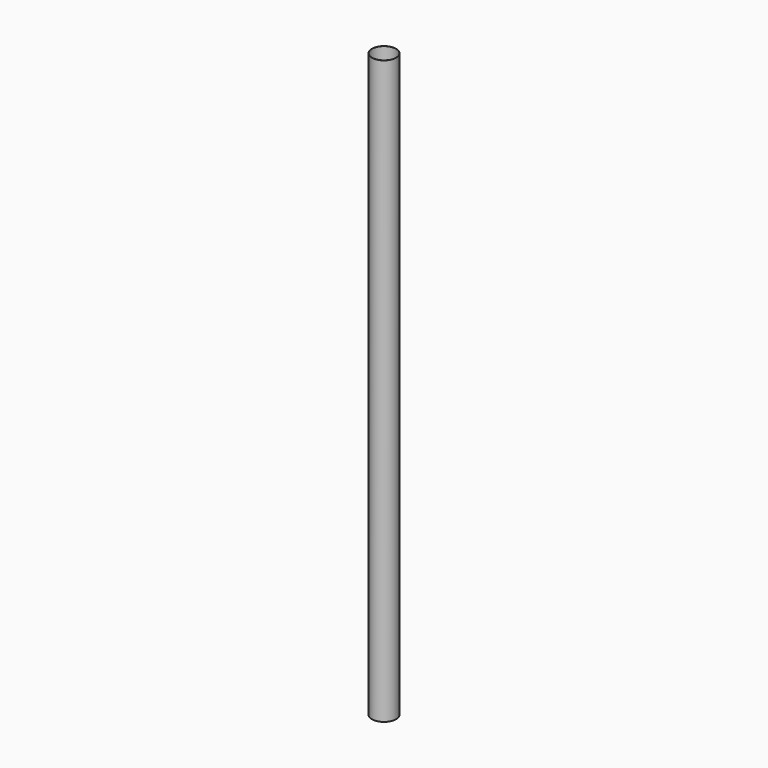
from build123d import *

# Parameters (mm, degrees)
F0_R     = 76.2
F0_R_2   = 75.565
F1_DEPTH = 3657.6
F2_DEPTH = 3655.06


with BuildPart() as f1:
    # F0 (on Top) → F1 (new body)
    with BuildSketch(Plane.XY):
        Circle(F0_R)
        Circle(F0_R_2, mode=Mode.SUBTRACT)
        Circle(F0_R_2)
    extrude(amount=-F1_DEPTH)

    # F0 (on Top) → F2 (cut)
    with BuildSketch(Plane.XY):
        Circle(F0_R_2)
    extrude(amount=-F2_DEPTH, mode=Mode.SUBTRACT)


solid = f1.part
